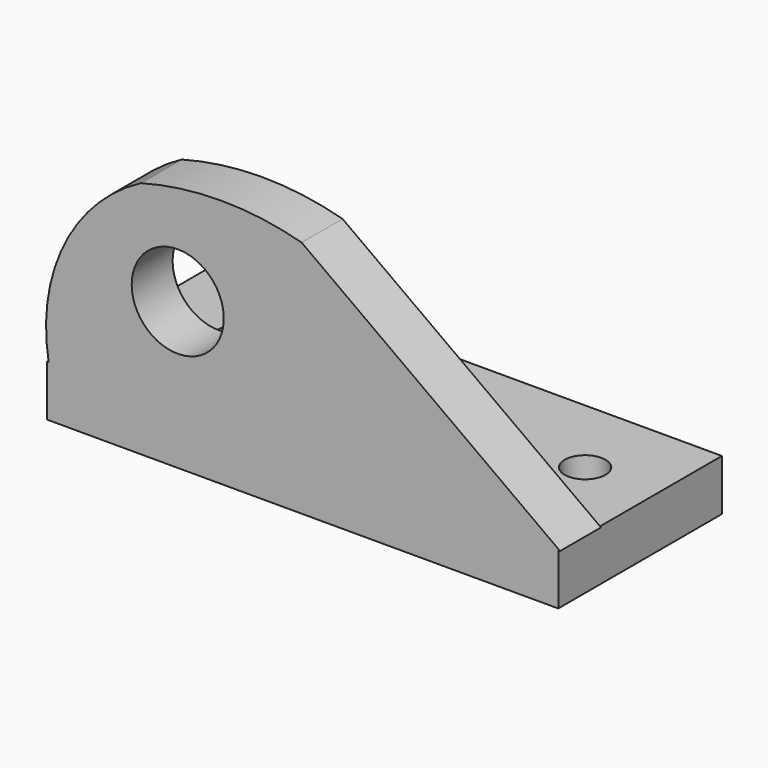
from build123d import *

# Parameters (mm, degrees)
F1_DEPTH      = 12.7
F2_W          = 127
F2_H          = 12.7
F3_DEPTH      = 12.7
F3_DEPTH_BACK = 38.1
F5_D          = 10.16
F7_D          = 22.86


with BuildPart() as f1:
    # F0 (on Front) → F1 (new body)
    with BuildSketch(Plane.XZ):
        with BuildLine():
            ThreePointArc((-27.5469627231, 46.5822257102), (-46.5732460023, 27.0152915934), (-50.451181829, 0))
            Line((-50.451181829, 0), (76.548818171, 0))
            Line((76.548818171, 0), (12.3806586489, 46.5822257102))
            ThreePointArc((12.3806586489, 46.5822257102), (-7.5831520371, 49.2438937812), (-27.5469627231, 46.5822257102))
        make_face()
    extrude(amount=F1_DEPTH)

    # F2 (on Front) → F3 (join, two sides)
    with BuildSketch(Plane.XZ) as f3_sk:
        with Locations((12.604193598, -6.35)):
            Rectangle(F2_W, F2_H)
    extrude(amount=F3_DEPTH)
    extrude(f3_sk.sketch, amount=-F3_DEPTH_BACK)

    # F5 (through all)
    with Locations(Plane.XY):
        with Locations((-28.3011049032, 18.4162277728), (58.3634935319, 17.7971962839)):
            Hole(F5_D / 2)

    # F7 (through all)
    with Locations(Plane(origin=(0, 0, 0), x_dir=(1, 0, 0), z_dir=(0, 1, 0))):
        with Locations((-18.3965787292, -23.678008467)):
            Hole(F7_D / 2)


solid = f1.part
